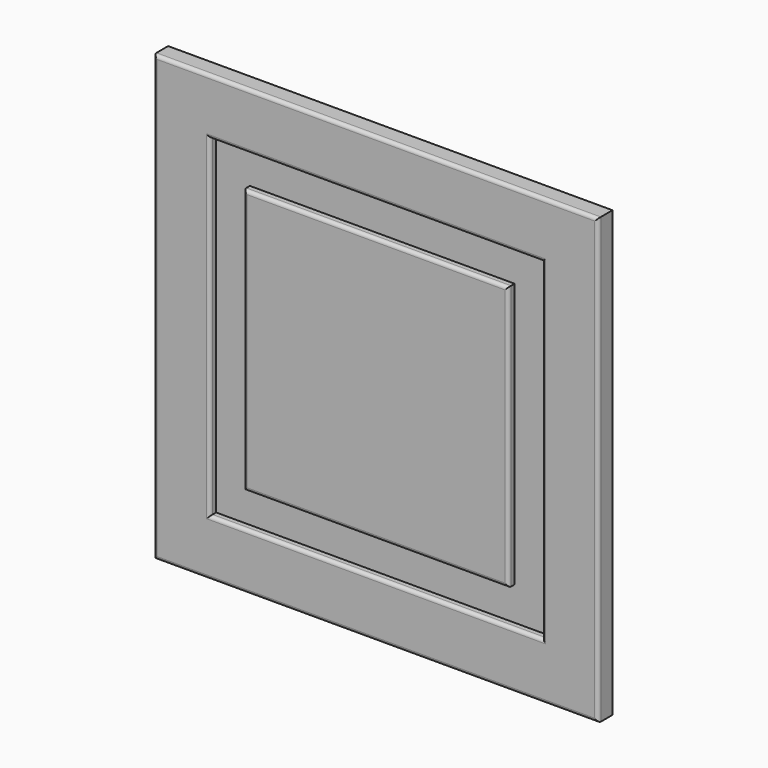
from build123d import *

# Parameters (mm, degrees)
F0_W      = 44.656470418
F0_H      = 33.8078811765
F1_DEPTH  = 16
F2_DEPTH  = 796
F3_DEPTH  = 196
F4_W      = 68.9578056335
F4_H      = 493.6993122101
F5_DEPTH  = 7
F6_DEPTH  = 9.7
F7_DEPTH  = 99.33
F8_DEPTH  = 99.33
F9_DEPTH  = 17.34
F10_DEPTH = 102.97
F11_W     = 35.2807044983
F11_H     = 492.0964837074
F12_DEPTH = 7
F13_DEPTH = 37.27
F14_DEPTH = 6.58
F15_DEPTH = 106.63
F16_DEPTH = 5.87
F17_DEPTH = 200
F18_DEPTH = 200
F19_DEPTH = 200
F20_DEPTH = 600
F21_DEPTH = 600
F22_DEPTH = 600
F23_DEPTH = 200
F24_DEPTH = 200
F25_DEPTH = 200
F26_R     = 3


with BuildPart() as f1:
    # F0 (on Front) → F1 (new body)
    with BuildSketch(Plane.XZ):
        with Locations((22.328235209, 16.9039405882)):
            Rectangle(F0_W, F0_H)
    extrude(amount=F1_DEPTH)

    # F2 (add): a face of the model
    f2_faces = [f1.faces().sort_by_distance(p)[0] for p in [
        (22.328235209, -8, 0),
    ]]
    extrude(f2_faces, amount=-F2_DEPTH)

    # F3 (add): a face of the model
    f3_faces = [f1.faces().sort_by_distance(p)[0] for p in [
        (0, -8, 398),
    ]]
    extrude(f3_faces, amount=-F3_DEPTH)

    # F4 (on face) → F5 (cut)
    with BuildSketch(Plane.XZ.offset(16)):
        with Locations((94.1769480705, 399.8196721077)):
            Rectangle(F4_W, F4_H)
    extrude(amount=-F5_DEPTH, mode=Mode.SUBTRACT)

    # F6 (cut): a face of the model
    f6_faces = [f1.faces().sort_by_distance(p)[0] for p in [
        (59.6980452538, -12.5, 399.8196721077),
    ]]
    extrude(f6_faces, amount=-F6_DEPTH, mode=Mode.SUBTRACT)

    # F7 (add): a face of the model
    f7_faces = [f1.faces().sort_by_distance(p)[0] for p in [
        (89.3269480705, -12.5, 646.6693282127),
    ]]
    extrude(f7_faces, amount=-F7_DEPTH)

    # F8 (cut): a face of the model
    f8_faces = [f1.faces().sort_by_distance(p)[0] for p in [
        (89.3269480705, -12.5, 646.6693282127),
    ]]
    extrude(f8_faces, amount=-F8_DEPTH, mode=Mode.SUBTRACT)

    # F9 (cut): a face of the model
    f9_faces = [f1.faces().sort_by_distance(p)[0] for p in [
        (128.6558508873, -12.5, 449.4846721077),
    ]]
    extrude(f9_faces, amount=-F9_DEPTH, mode=Mode.SUBTRACT)

    # F10 (cut): a face of the model
    f10_faces = [f1.faces().sort_by_distance(p)[0] for p in [
        (97.9969480705, -12.5, 152.9700160027),
    ]]
    extrude(f10_faces, amount=-F10_DEPTH, mode=Mode.SUBTRACT)

    # F11 (on face) → F12 (join)
    with BuildSketch(Plane.XZ.offset(9)):
        with Locations((91.7714834213, 432.6795041561)):
            Rectangle(F11_W, F11_H)
    extrude(amount=F12_DEPTH)

    # F13 (add): a face of the model
    f13_faces = [f1.faces().sort_by_distance(p)[0] for p in [
        (91.7714834213, -12.5, 678.7277460098),
    ]]
    extrude(f13_faces, amount=F13_DEPTH)

    # F14 (add): a face of the model
    f14_faces = [f1.faces().sort_by_distance(p)[0] for p in [
        (109.4118356705, -12.5, 451.3145041561),
    ]]
    extrude(f14_faces, amount=F14_DEPTH)

    # F15 (add): a face of the model
    f15_faces = [f1.faces().sort_by_distance(p)[0] for p in [
        (95.0614834213, -12.5, 186.6312623024),
    ]]
    extrude(f15_faces, amount=F15_DEPTH)

    # F16 (cut): a face of the model
    f16_faces = [f1.faces().sort_by_distance(p)[0] for p in [
        (74.1311311722, -12.5, 397.9995041561),
    ]]
    extrude(f16_faces, amount=-F16_DEPTH, mode=Mode.SUBTRACT)

    # F17 (add): a face of the model
    f17_faces = [f1.faces().sort_by_distance(p)[0] for p in [
        (196, -8, 398),
    ]]
    extrude(f17_faces, amount=F17_DEPTH)

    # F18 (cut): a face of the model
    f18_faces = [f1.faces().sort_by_distance(p)[0] for p in [
        (145.9958508873, -12.5, 397.9996721077),
    ]]
    extrude(f18_faces, amount=-F18_DEPTH, mode=Mode.SUBTRACT)

    # F19 (add): a face of the model
    f19_faces = [f1.faces().sort_by_distance(p)[0] for p in [
        (115.9918356705, -12.5, 397.9995041561),
    ]]
    extrude(f19_faces, amount=F19_DEPTH)

    # F20 (cut): a face of the model
    f20_faces = [f1.faces().sort_by_distance(p)[0] for p in [
        (197.9964834213, -12.5, 80.0012623024),
    ]]
    extrude(f20_faces, amount=-F20_DEPTH, mode=Mode.SUBTRACT)

    # F21 (add): a face of the model
    f21_faces = [f1.faces().sort_by_distance(p)[0] for p in [
        (197.9969480705, -12.5, 50.0000160027),
    ]]
    extrude(f21_faces, amount=F21_DEPTH)

    # F22 (cut): a face of the model
    f22_faces = [f1.faces().sort_by_distance(p)[0] for p in [
        (198, -8, 0),
    ]]
    extrude(f22_faces, amount=-F22_DEPTH, mode=Mode.SUBTRACT)

    # F23 (add): a face of the model
    f23_faces = [f1.faces().sort_by_distance(p)[0] for p in [
        (198, -8, 600),
    ]]
    extrude(f23_faces, amount=F23_DEPTH)

    # F24 (cut): a face of the model
    f24_faces = [f1.faces().sort_by_distance(p)[0] for p in [
        (197.9969480705, -12.5, 650.0000160027),
    ]]
    extrude(f24_faces, amount=-F24_DEPTH, mode=Mode.SUBTRACT)

    # F25 (add): a face of the model
    f25_faces = [f1.faces().sort_by_distance(p)[0] for p in [
        (197.9964834213, -12.5, 680.0012623024),
    ]]
    extrude(f25_faces, amount=F25_DEPTH)

    # F26
    f26_edges = [f1.edges().sort_by_distance(p)[0] for p in [
        (197.996483, -16, 480.001262),
        (80.001131, -16, 597.999504),
        (197.996483, -16, 715.997746),
        (315.991836, -16, 597.999504),
        (0, -16, 598),
        (198, -16, 400),
        (396, -16, 598),
        (198, -16, 796),
        (49.998045, -16, 597.999672),
        (197.996948, -16, 745.999328),
        (345.995851, -16, 597.999672),
        (197.996948, -16, 450.000016),
    ]]
    fillet(f26_edges, radius=F26_R)


solid = f1.part
